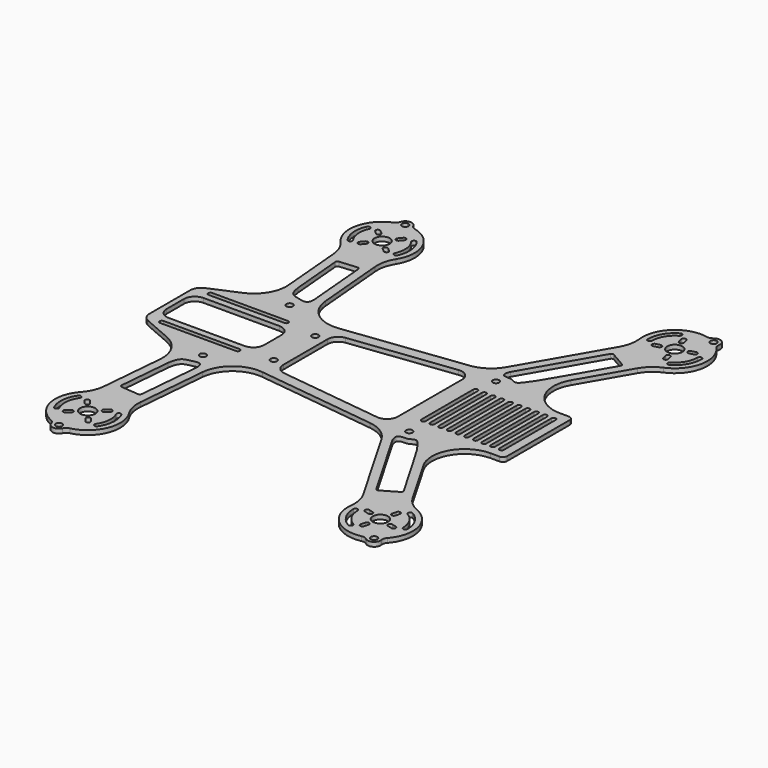
from build123d import *

# Parameters (mm, degrees)
F0_R     = 1.5
F0_R_2   = 3.5
F1_DEPTH = 2


with BuildPart() as f1:
    # F0 (on Top) → F1 (new body)
    with BuildSketch(Plane.XY):
        with BuildLine():
            ThreePointArc((-62.3969489134, -66.1545833205), (-63.5771862968, -70.8128614998), (-66.1699346924, -74.8588683751))
            ThreePointArc((-66.1699346924, -74.8588683751), (-69.6462728228, -88.1088058619), (-60.9078947559, -98.6580484394))
            ThreePointArc((-60.9078947559, -98.6580484394), (-59.8303752098, -99.4416113841), (-59.1984049241, -100.6144851277))
            ThreePointArc((-59.1984049241, -100.6144851277), (-56.5688033695, -102.8019941365), (-53.5992944181, -101.1043438228))
            ThreePointArc((-53.5992944181, -101.1043438228), (-52.7732577929, -100.0590291552), (-51.5760439125, -99.4744795979))
            ThreePointArc((-51.5760439125, -99.4744795979), (-41.138564694, -90.6029071462), (-42.2612619382, -76.950606201))
            ThreePointArc((-42.2612619382, -76.950606201), (-44.112038939, -72.5158412275), (-44.4654443477, -67.72338669))
            Line((-44.4654443477, -67.72338669), (-41.6439752318, -35.4738471247))
            ThreePointArc((-41.6439752318, -35.4738471247), (-36.1408606262, -25.123993844), (-24.8730146094, -21.8929909913))
            Line((-24.8730146094, -21.8929909913), (30.2591563071, -28.6623703889))
            ThreePointArc((30.2591563071, -28.6623703889), (36.7101709357, -31.0422753325), (41.4214972128, -36.0505626635))
            Line((41.4214972128, -36.0505626635), (63.2057713659, -73.7820323028))
            ThreePointArc((63.2057713659, -73.7820323028), (64.9108560982, -78.2748267487), (65.1076951546, -83.0762609368))
            ThreePointArc((65.1076951546, -83.0762609368), (69.859897594, -95.9239199522), (83.0687548151, -99.5532258242))
            ThreePointArc((83.0687548151, -99.5532258242), (84.4008403955, -99.5770431908), (85.5912528891, -100.1753218513))
            ThreePointArc((85.5912528891, -100.1753218513), (89, -100.458946839), (90.4587471109, -97.365072752))
            ThreePointArc((90.4587471109, -97.365072752), (90.5358288392, -96.0350059613), (91.1812451849, -94.8694773254))
            ThreePointArc((91.1812451849, -94.8694773254), (94.6426027122, -81.6156184809), (85.8923048454, -71.0762609368))
            ThreePointArc((85.8923048454, -71.0762609368), (81.8325603921, -68.5050762194), (78.7942286341, -64.7820323028))
            Line((78.7942286341, -64.7820323028), (65.929691286, -42.5))
            ThreePointArc((65.929691286, -42.5), (65.929691286, -27.5), (78.9200723427, -20))
            Line((78.9200723427, -20), (83, -20))
            ThreePointArc((83, -20), (84.4142135624, -19.4142135624), (85, -18))
            Line((85, -18), (85, 0))
            Line((85, 0), (85, 18))
            ThreePointArc((85, 18), (84.4142135624, 19.4142135624), (83, 20))
            Line((83, 20), (78.9200723427, 20))
            ThreePointArc((78.9200723427, 20), (65.929691286, 27.5), (65.929691286, 42.5))
            Line((65.929691286, 42.5), (78.7942286341, 64.7820323028))
            ThreePointArc((78.7942286341, 64.7820323028), (81.8325603921, 68.5050762194), (85.8923048454, 71.0762609368))
            ThreePointArc((85.8923048454, 71.0762609368), (94.6426027122, 81.6156184809), (91.1812451849, 94.8694773254))
            ThreePointArc((91.1812451849, 94.8694773254), (90.5358288392, 96.0350059613), (90.4587471109, 97.365072752))
            ThreePointArc((90.4587471109, 97.365072752), (89, 100.458946839), (85.5912528891, 100.1753218513))
            ThreePointArc((85.5912528891, 100.1753218513), (84.4008403955, 99.5770431908), (83.0687548151, 99.5532258242))
            ThreePointArc((83.0687548151, 99.5532258242), (69.859897594, 95.9239199522), (65.1076951546, 83.0762609368))
            ThreePointArc((65.1076951546, 83.0762609368), (64.9108560982, 78.2748267487), (63.2057713659, 73.7820323028))
            Line((63.2057713659, 73.7820323028), (41.4214972128, 36.0505626635))
            ThreePointArc((41.4214972128, 36.0505626635), (36.7101709357, 31.0422753325), (30.2591563071, 28.6623703889))
            Line((30.2591563071, 28.6623703889), (-24.8730146094, 21.8929909913))
            ThreePointArc((-24.8730146094, 21.8929909913), (-36.1408606262, 25.123993844), (-41.6439752318, 35.4738471247))
            Line((-41.6439752318, 35.4738471247), (-44.4654443477, 67.72338669))
            ThreePointArc((-44.4654443477, 67.72338669), (-44.112038939, 72.5158412275), (-42.2612619382, 76.950606201))
            ThreePointArc((-42.2612619382, 76.950606201), (-41.138564694, 90.6029071462), (-51.5760439125, 99.4744795979))
            ThreePointArc((-51.5760439125, 99.4744795979), (-52.7732577929, 100.0590291552), (-53.5992944181, 101.1043438228))
            ThreePointArc((-53.5992944181, 101.1043438228), (-56.5688033695, 102.8019941365), (-59.1984049241, 100.6144851277))
            ThreePointArc((-59.1984049241, 100.6144851277), (-59.8303752098, 99.4416113841), (-60.9078947559, 98.6580484394))
            ThreePointArc((-60.9078947559, 98.6580484394), (-69.6462728228, 88.1088058619), (-66.1699346924, 74.8588683751))
            ThreePointArc((-66.1699346924, 74.8588683751), (-63.5771862968, 70.8128614998), (-62.3969489134, 66.1545833205))
            Line((-62.3969489134, 66.1545833205), (-59.8530560661, 37.0777550237))
            ThreePointArc((-59.8530560661, 37.0777550237), (-61.9094768936, 28.093301785), (-68.8312252502, 22.0073617337))
            Line((-68.8312252502, 22.0073617337), (-81.9882504291, 16.3052577589))
            ThreePointArc((-81.9882504291, 16.3052577589), (-84.1797878024, 14.4615425103), (-85, 11.7175720427))
            Line((-85, 11.7175720427), (-85, 0))
            Line((-85, 0), (-85, -11.7175720427))
            ThreePointArc((-85, -11.7175720427), (-84.1797878024, -14.4615425103), (-81.9882504291, -16.3052577589))
            Line((-81.9882504291, -16.3052577589), (-68.8312252502, -22.0073617337))
            ThreePointArc((-68.8312252502, -22.0073617337), (-61.9094768936, -28.093301785), (-59.8530560661, -37.0777550237))
            Line((-59.8530560661, -37.0777550237), (-62.3969489134, -66.1545833205))
        make_face()
        with BuildLine():
            ThreePointArc((-66.328847338, -90.1532178426), (-67.4524337261, -83.7810427865), (-65.2394005536, -77.7007841165))
            ThreePointArc((-65.2394005536, -77.7007841165), (-63.846672073, -77.4552085085), (-63.601096465, -78.8479369892))
            ThreePointArc((-63.601096465, -78.8479369892), (-65.46004433, -83.955354272), (-64.5162317639, -89.3079813192))
            ThreePointArc((-64.5162317639, -89.3079813192), (-64.9999212892, -90.6369073679), (-66.328847338, -90.1532178426))
        make_face(mode=Mode.SUBTRACT)
        with Locations((-56.3073361412, -99.8134100423)):
            Circle(F0_R, mode=Mode.SUBTRACT)
        with BuildLine():
            Line((-50.3772298988, -88.8239686199), (-49.0916546794, -90.3560575061))
            ThreePointArc((-49.0916546794, -90.3560575061), (-49.2149115128, -91.7648895589), (-50.6237435656, -91.6416327255))
            Line((-50.6237435656, -91.6416327255), (-51.909318785, -90.1095438393))
            ThreePointArc((-51.909318785, -90.1095438393), (-51.7860619516, -88.7007117865), (-50.3772298988, -88.8239686199))
        make_face(mode=Mode.SUBTRACT)
        with BuildLine():
            Line((-58.953479049, -89.4932596721), (-60.4855679353, -90.7788348915))
            ThreePointArc((-60.4855679353, -90.7788348915), (-61.8943999881, -90.6555780581), (-61.7711431546, -89.2467460052))
            Line((-61.7711431546, -89.2467460052), (-60.2390542684, -87.9611707859))
            ThreePointArc((-60.2390542684, -87.9611707859), (-58.8302222156, -88.0844276193), (-58.953479049, -89.4932596721))
        make_face(mode=Mode.SUBTRACT)
        with Locations((-55, -84.8704895709)):
            Circle(F0_R_2, mode=Mode.SUBTRACT)
        with BuildLine():
            Line((-59.3762564344, -78.0993464162), (-58.090681215, -79.6314353025))
            ThreePointArc((-58.090681215, -79.6314353025), (-58.2139380484, -81.0402673553), (-59.6227701012, -80.9170105218))
            Line((-59.6227701012, -80.9170105218), (-60.9083453206, -79.3849216356))
            ThreePointArc((-60.9083453206, -79.3849216356), (-60.7850884872, -77.9760895828), (-59.3762564344, -78.0993464162))
        make_face(mode=Mode.SUBTRACT)
        with BuildLine():
            ThreePointArc((-43.671152662, -79.5877612991), (-42.5475662739, -85.9599363552), (-44.7605994464, -92.0401950253))
            ThreePointArc((-44.7605994464, -92.0401950253), (-46.153327927, -92.2857706332), (-46.398903535, -90.8930421526))
            ThreePointArc((-46.398903535, -90.8930421526), (-44.53995567, -85.7856248697), (-45.4837682361, -80.4329978226))
            ThreePointArc((-45.4837682361, -80.4329978226), (-45.0000787108, -79.1040717738), (-43.671152662, -79.5877612991))
        make_face(mode=Mode.SUBTRACT)
        with BuildLine():
            Line((-51.046520951, -80.2477194696), (-49.5144320647, -78.9621442503))
            ThreePointArc((-49.5144320647, -78.9621442503), (-48.1056000119, -79.0854010837), (-48.2288568454, -80.4942331365))
            Line((-48.2288568454, -80.4942331365), (-49.7609457316, -81.7798083559))
            ThreePointArc((-49.7609457316, -81.7798083559), (-51.1697777844, -81.6565515224), (-51.046520951, -80.2477194696))
        make_face(mode=Mode.SUBTRACT)
        with BuildLine():
            Line((-57.9763914073, -61.522232801), (-55.8682772737, -37.426377994))
            add(Edge.make_bspline(
                [(-55.8682772737, -37.426377994), (-55.1046008774, -31.5850283323), (-51.325228684, -31.7186170142), (-44.989078895, -29.3366249463), (-45.6287540241, -35.125224153)],
                knots=[0, 0, 0, 0, 0.5390845432, 1, 1, 1, 1], degree=3))
            Line((-45.6287540241, -35.125224153), (-48.0144444263, -62.3937902285))
            ThreePointArc((-48.0144444263, -62.3937902285), (-48.3678515148, -63.0726789289), (-49.0977948672, -63.3028291838))
            Line((-49.0977948672, -63.3028291838), (-57.0673524519, -62.6055832419))
            ThreePointArc((-57.0673524519, -62.6055832419), (-57.7462411523, -62.2521761535), (-57.9763914073, -61.522232801))
        make_face(mode=Mode.SUBTRACT)
        with BuildLine():
            Line((-77.5, -13), (-42.5, -13))
            ThreePointArc((-42.5, -13), (-41.5, -14), (-42.5, -15))
            Line((-42.5, -15), (-77.5, -15))
            ThreePointArc((-77.5, -15), (-78.5, -14), (-77.5, -13))
        make_face(mode=Mode.SUBTRACT)
        with Locations((-49.7620108828, -25)):
            Circle(F0_R, mode=Mode.SUBTRACT)
        with Locations((-27.5, -12)):
            Circle(F0_R, mode=Mode.SUBTRACT)
        with BuildLine():
            ThreePointArc((73.75, -95.6958071182), (69.1746824527, -91.1204895709), (67.5, -84.8704895709))
            ThreePointArc((67.5, -84.8704895709), (68.5, -83.8704895709), (69.5, -84.8704895709))
            ThreePointArc((69.5, -84.8704895709), (70.9067332603, -90.1204895709), (74.75, -93.9637563106))
            ThreePointArc((74.75, -93.9637563106), (75.1160254038, -95.3297817144), (73.75, -95.6958071182))
        make_face(mode=Mode.SUBTRACT)
        with BuildLine():
            Line((79.4130115557, -90.9248635737), (78.8953734655, -92.8567152263))
            ThreePointArc((78.8953734655, -92.8567152263), (77.6706285941, -93.5638220075), (76.9635218129, -92.3390771361))
            Line((76.9635218129, -92.3390771361), (77.4811599031, -90.4072254835))
            ThreePointArc((77.4811599031, -90.4072254835), (78.7059047745, -89.7001187023), (79.4130115557, -90.9248635737))
        make_face(mode=Mode.SUBTRACT)
        with Locations((87.5, -97.8608706276)):
            Circle(F0_R, mode=Mode.SUBTRACT)
        with Locations((80, -84.8704895709)):
            Circle(F0_R_2, mode=Mode.SUBTRACT)
        with BuildLine():
            Line((73.9456259972, -84.2835011265), (72.0137743446, -83.7658630363))
            ThreePointArc((72.0137743446, -83.7658630363), (71.3066675634, -82.541118165), (72.5314124348, -81.8340113838))
            Line((72.5314124348, -81.8340113838), (74.4632640874, -82.351649474))
            ThreePointArc((74.4632640874, -82.351649474), (75.1703708686, -83.5763943454), (73.9456259972, -84.2835011265))
        make_face(mode=Mode.SUBTRACT)
        with BuildLine():
            Line((83.0364781871, -77.4019020057), (82.5188400969, -79.3337536582))
            ThreePointArc((82.5188400969, -79.3337536582), (81.2940952255, -80.0408604394), (80.5869884443, -78.816115568))
            Line((80.5869884443, -78.816115568), (81.1046265345, -76.8842639155))
            ThreePointArc((81.1046265345, -76.8842639155), (82.3293714059, -76.1771571343), (83.0364781871, -77.4019020057))
        make_face(mode=Mode.SUBTRACT)
        with BuildLine():
            Line((86.0543740028, -85.4574780152), (87.9862256554, -85.9751161054))
            ThreePointArc((87.9862256554, -85.9751161054), (88.6933324366, -87.1998609768), (87.4685875652, -87.906967758))
            Line((87.4685875652, -87.906967758), (85.5367359126, -87.3893296678))
            ThreePointArc((85.5367359126, -87.3893296678), (84.8296291314, -86.1645847964), (86.0543740028, -85.4574780152))
        make_face(mode=Mode.SUBTRACT)
        with BuildLine():
            ThreePointArc((86.25, -74.0451720236), (90.8253175473, -78.6204895709), (92.5, -84.8704895709))
            ThreePointArc((92.5, -84.8704895709), (91.5, -85.8704895709), (90.5, -84.8704895709))
            ThreePointArc((90.5, -84.8704895709), (89.0932667397, -79.6204895709), (85.25, -75.7772228311))
            ThreePointArc((85.25, -75.7772228311), (84.8839745962, -74.4111974274), (86.25, -74.0451720236))
        make_face(mode=Mode.SUBTRACT)
        with Locations((45.4337567297, -25)):
            Circle(F0_R, mode=Mode.SUBTRACT)
        with BuildLine():
            Line((62.4656350661, -44.5000786269), (72.8301270189, -62.4519052838))
            ThreePointArc((72.8301270189, -62.4519052838), (72.9300274414, -63.2107243289), (72.4641016151, -63.8179306876))
            Line((72.4641016151, -63.8179306876), (65.5358983849, -67.8179306876))
            ThreePointArc((65.5358983849, -67.8179306876), (64.7770793398, -67.9178311101), (64.1698729811, -67.4519052838))
            Line((64.1698729811, -67.4519052838), (44.8856442232, -34.0506412904))
            add(Edge.make_bspline(
                [(62.4656350661, -44.5000786269), (50.5437816906, -23.5692284549), (52.9383624518, -32.1894031306), (42.8399057636, -29.16588924), (44.8856442232, -34.0506412904)],
                knots=[0, 0, 0, 0, 0.6610807529, 1, 1, 1, 1], degree=3))
        make_face(mode=Mode.SUBTRACT)
        with BuildLine():
            ThreePointArc((-37.5, -5), (-38.9644660941, -8.5355339059), (-42.5, -10))
            Line((-42.5, -10), (-77.5, -10))
            ThreePointArc((-77.5, -10), (-81.0355339059, -8.5355339059), (-82.5, -5))
            Line((-82.5, -5), (-82.5, 5))
            ThreePointArc((-82.5, 5), (-81.0355339059, 8.5355339059), (-77.5, 10))
            Line((-77.5, 10), (-42.5, 10))
            ThreePointArc((-42.5, 10), (-38.9644660941, 8.5355339059), (-37.5, 5))
            Line((-37.5, 5), (-37.5, -5))
        make_face(mode=Mode.SUBTRACT)
        with BuildLine():
            ThreePointArc((-42.5, 15), (-41.5, 14), (-42.5, 13))
            Line((-42.5, 13), (-77.5, 13))
            ThreePointArc((-77.5, 13), (-78.5, 14), (-77.5, 15))
            Line((-77.5, 15), (-42.5, 15))
        make_face(mode=Mode.SUBTRACT)
        with Locations((-49.7620108828, 25)):
            Circle(F0_R, mode=Mode.SUBTRACT)
        with BuildLine():
            ThreePointArc((-49.0977948672, 63.3028291838), (-48.3678515148, 63.0726789289), (-48.0144444263, 62.3937902285))
            Line((-48.0144444263, 62.3937902285), (-45.6287540241, 35.125224153))
            add(Edge.make_bspline(
                [(-55.8682772737, 37.426377994), (-55.1046008774, 31.5850283323), (-51.325228684, 31.7186170142), (-44.989078895, 29.3366249463), (-45.6287540241, 35.125224153)],
                knots=[0, 0, 0, 0, 0.5390845432, 1, 1, 1, 1], degree=3))
            Line((-55.8682772737, 37.426377994), (-57.9763914073, 61.522232801))
            ThreePointArc((-57.9763914073, 61.522232801), (-57.7462411523, 62.2521761535), (-57.0673524519, 62.6055832419))
            Line((-57.0673524519, 62.6055832419), (-49.0977948672, 63.3028291838))
        make_face(mode=Mode.SUBTRACT)
        with Locations((-27.5, 12)):
            Circle(F0_R, mode=Mode.SUBTRACT)
        with BuildLine():
            ThreePointArc((-66.328847338, 90.1532178426), (-64.9999212892, 90.6369073679), (-64.5162317639, 89.3079813192))
            ThreePointArc((-64.5162317639, 89.3079813192), (-65.46004433, 83.955354272), (-63.601096465, 78.8479369892))
            ThreePointArc((-63.601096465, 78.8479369892), (-63.846672073, 77.4552085085), (-65.2394005536, 77.7007841165))
            ThreePointArc((-65.2394005536, 77.7007841165), (-67.4524337261, 83.7810427865), (-66.328847338, 90.1532178426))
        make_face(mode=Mode.SUBTRACT)
        with BuildLine():
            ThreePointArc((-59.6227701012, 80.9170105218), (-58.2139380484, 81.0402673553), (-58.090681215, 79.6314353025))
            Line((-58.090681215, 79.6314353025), (-59.3762564344, 78.0993464162))
            ThreePointArc((-59.3762564344, 78.0993464162), (-60.7850884872, 77.9760895828), (-60.9083453206, 79.3849216356))
            Line((-60.9083453206, 79.3849216356), (-59.6227701012, 80.9170105218))
        make_face(mode=Mode.SUBTRACT)
        with BuildLine():
            Line((-60.4855679353, 90.7788348915), (-58.953479049, 89.4932596721))
            ThreePointArc((-58.953479049, 89.4932596721), (-58.8302222156, 88.0844276193), (-60.2390542684, 87.9611707859))
            Line((-60.2390542684, 87.9611707859), (-61.7711431546, 89.2467460052))
            ThreePointArc((-61.7711431546, 89.2467460052), (-61.8943999881, 90.6555780581), (-60.4855679353, 90.7788348915))
        make_face(mode=Mode.SUBTRACT)
        with Locations((-55, 84.8704895709)):
            Circle(F0_R_2, mode=Mode.SUBTRACT)
        with BuildLine():
            ThreePointArc((-51.046520951, 80.2477194696), (-51.1697777844, 81.6565515224), (-49.7609457316, 81.7798083559))
            Line((-49.7609457316, 81.7798083559), (-48.2288568454, 80.4942331365))
            ThreePointArc((-48.2288568454, 80.4942331365), (-48.1056000119, 79.0854010837), (-49.5144320647, 78.9621442503))
            Line((-49.5144320647, 78.9621442503), (-51.046520951, 80.2477194696))
        make_face(mode=Mode.SUBTRACT)
        with BuildLine():
            ThreePointArc((-46.398903535, 90.8930421526), (-46.153327927, 92.2857706332), (-44.7605994464, 92.0401950253))
            ThreePointArc((-44.7605994464, 92.0401950253), (-42.5475662739, 85.9599363552), (-43.671152662, 79.5877612991))
            ThreePointArc((-43.671152662, 79.5877612991), (-45.0000787108, 79.1040717738), (-45.4837682361, 80.4329978226))
            ThreePointArc((-45.4837682361, 80.4329978226), (-44.53995567, 85.7856248697), (-46.398903535, 90.8930421526))
        make_face(mode=Mode.SUBTRACT)
        with Locations((-56.3073361412, 99.8134100423)):
            Circle(F0_R, mode=Mode.SUBTRACT)
        with BuildLine():
            ThreePointArc((-50.3772298988, 88.8239686199), (-51.7860619516, 88.7007117865), (-51.909318785, 90.1095438393))
            Line((-51.909318785, 90.1095438393), (-50.6237435656, 91.6416327255))
            ThreePointArc((-50.6237435656, 91.6416327255), (-49.2149115128, 91.7648895589), (-49.0916546794, 90.3560575061))
            Line((-49.0916546794, 90.3560575061), (-50.3772298988, 88.8239686199))
        make_face(mode=Mode.SUBTRACT)
        with BuildLine():
            Line((29.390653283, -23.5181824991), (-18.109346717, -17.6859158562))
            ThreePointArc((-18.109346717, -17.6859158562), (-21.2447786039, -16.0362853391), (-22.5, -12.723185098))
            Line((-22.5, -12.723185098), (-22.5, 0))
            Line((-22.5, 0), (-22.5, 12.723185098))
            ThreePointArc((-22.5, 12.723185098), (-21.2447786039, 16.0362853391), (-18.109346717, 17.6859158562))
            Line((-18.109346717, 17.6859158562), (29.390653283, 23.5181824991))
            ThreePointArc((29.390653283, 23.5181824991), (33.3131002411, 22.3002303449), (35, 18.5554517409))
            Line((35, 18.5554517409), (35, 0))
            Line((35, 0), (35, -18.5554517409))
            ThreePointArc((35, -18.5554517409), (33.3131002411, -22.3002303449), (29.390653283, -23.5181824991))
        make_face(mode=Mode.SUBTRACT)
        with BuildLine():
            Line((43, -15), (43, 15))
            ThreePointArc((43, 15), (44, 16), (45, 15))
            Line((45, 15), (45, -15))
            ThreePointArc((45, -15), (44, -16), (43, -15))
        make_face(mode=Mode.SUBTRACT)
        with BuildLine():
            Line((47, -15), (47, 15))
            ThreePointArc((47, 15), (48, 16), (49, 15))
            Line((49, 15), (49, -15))
            ThreePointArc((49, -15), (48, -16), (47, -15))
        make_face(mode=Mode.SUBTRACT)
        with Locations((45.4337567297, 25)):
            Circle(F0_R, mode=Mode.SUBTRACT)
        with BuildLine():
            Line((51, -15), (51, 15))
            ThreePointArc((51, 15), (52, 16), (53, 15))
            Line((53, 15), (53, -15))
            ThreePointArc((53, -15), (52, -16), (51, -15))
        make_face(mode=Mode.SUBTRACT)
        with BuildLine():
            Line((55, -15), (55, 15))
            ThreePointArc((55, 15), (56, 16), (57, 15))
            Line((57, 15), (57, -15))
            ThreePointArc((57, -15), (56, -16), (55, -15))
        make_face(mode=Mode.SUBTRACT)
        with BuildLine():
            Line((59, -15), (59, 15))
            ThreePointArc((59, 15), (60, 16), (61, 15))
            Line((61, 15), (61, -15))
            ThreePointArc((61, -15), (60, -16), (59, -15))
        make_face(mode=Mode.SUBTRACT)
        with BuildLine():
            Line((63, -15), (63, 15))
            ThreePointArc((63, 15), (64, 16), (65, 15))
            Line((65, 15), (65, -15))
            ThreePointArc((65, -15), (64, -16), (63, -15))
        make_face(mode=Mode.SUBTRACT)
        with BuildLine():
            Line((67, -15), (67, 15))
            ThreePointArc((67, 15), (68, 16), (69, 15))
            Line((69, 15), (69, -15))
            ThreePointArc((69, -15), (68, -16), (67, -15))
        make_face(mode=Mode.SUBTRACT)
        with BuildLine():
            Line((71, -15), (71, 15))
            ThreePointArc((71, 15), (72, 16), (73, 15))
            Line((73, 15), (73, -15))
            ThreePointArc((73, -15), (72, -16), (71, -15))
        make_face(mode=Mode.SUBTRACT)
        with BuildLine():
            Line((75, -15), (75, 15))
            ThreePointArc((75, 15), (76, 16), (77, 15))
            Line((77, 15), (77, -15))
            ThreePointArc((77, -15), (76, -16), (75, -15))
        make_face(mode=Mode.SUBTRACT)
        with BuildLine():
            Line((79, -15), (79, 15))
            ThreePointArc((79, 15), (80, 16), (81, 15))
            Line((81, 15), (81, -15))
            ThreePointArc((81, -15), (80, -16), (79, -15))
        make_face(mode=Mode.SUBTRACT)
        with BuildLine():
            Line((44.8856442232, 34.0506412904), (64.1698729811, 67.4519052838))
            ThreePointArc((64.1698729811, 67.4519052838), (64.7770793398, 67.9178311101), (65.5358983849, 67.8179306876))
            Line((65.5358983849, 67.8179306876), (72.4641016151, 63.8179306876))
            ThreePointArc((72.4641016151, 63.8179306876), (72.9300274414, 63.2107243289), (72.8301270189, 62.4519052838))
            Line((72.8301270189, 62.4519052838), (62.4656350661, 44.5000786269))
            add(Edge.make_bspline(
                [(62.4656350661, 44.5000786269), (50.5437816906, 23.5692284549), (52.9383624518, 32.1894031306), (42.8399057636, 29.16588924), (44.8856442232, 34.0506412904)],
                knots=[0, 0, 0, 0, 0.6610807529, 1, 1, 1, 1], degree=3))
        make_face(mode=Mode.SUBTRACT)
        with BuildLine():
            ThreePointArc((69.5, 84.8704895709), (68.5, 83.8704895709), (67.5, 84.8704895709))
            ThreePointArc((67.5, 84.8704895709), (69.1746824527, 91.1204895709), (73.75, 95.6958071182))
            ThreePointArc((73.75, 95.6958071182), (75.1160254038, 95.3297817144), (74.75, 93.9637563106))
            ThreePointArc((74.75, 93.9637563106), (70.9067332603, 90.1204895709), (69.5, 84.8704895709))
        make_face(mode=Mode.SUBTRACT)
        with BuildLine():
            ThreePointArc((72.5314124348, 81.8340113838), (71.3066675634, 82.541118165), (72.0137743446, 83.7658630363))
            Line((72.0137743446, 83.7658630363), (73.9456259972, 84.2835011265))
            ThreePointArc((73.9456259972, 84.2835011265), (75.1703708686, 83.5763943454), (74.4632640874, 82.351649474))
            Line((74.4632640874, 82.351649474), (72.5314124348, 81.8340113838))
        make_face(mode=Mode.SUBTRACT)
        with BuildLine():
            Line((81.1046265345, 76.8842639155), (80.5869884443, 78.816115568))
            ThreePointArc((80.5869884443, 78.816115568), (81.2940952255, 80.0408604394), (82.5188400969, 79.3337536582))
            Line((82.5188400969, 79.3337536582), (83.0364781871, 77.4019020057))
            ThreePointArc((83.0364781871, 77.4019020057), (82.3293714059, 76.1771571343), (81.1046265345, 76.8842639155))
        make_face(mode=Mode.SUBTRACT)
        with Locations((80, 84.8704895709)):
            Circle(F0_R_2, mode=Mode.SUBTRACT)
        with BuildLine():
            ThreePointArc((90.5, 84.8704895709), (91.5, 85.8704895709), (92.5, 84.8704895709))
            ThreePointArc((92.5, 84.8704895709), (90.8253175473, 78.6204895709), (86.25, 74.0451720236))
            ThreePointArc((86.25, 74.0451720236), (84.8839745962, 74.4111974274), (85.25, 75.7772228311))
            ThreePointArc((85.25, 75.7772228311), (89.0932667397, 79.6204895709), (90.5, 84.8704895709))
        make_face(mode=Mode.SUBTRACT)
        with BuildLine():
            ThreePointArc((86.0543740028, 85.4574780152), (84.8296291314, 86.1645847964), (85.5367359126, 87.3893296678))
            Line((85.5367359126, 87.3893296678), (87.4685875652, 87.906967758))
            ThreePointArc((87.4685875652, 87.906967758), (88.6933324366, 87.1998609768), (87.9862256554, 85.9751161054))
            Line((87.9862256554, 85.9751161054), (86.0543740028, 85.4574780152))
        make_face(mode=Mode.SUBTRACT)
        with BuildLine():
            ThreePointArc((79.4130115557, 90.9248635737), (78.7059047745, 89.7001187023), (77.4811599031, 90.4072254835))
            Line((77.4811599031, 90.4072254835), (76.9635218129, 92.3390771361))
            ThreePointArc((76.9635218129, 92.3390771361), (77.6706285941, 93.5638220075), (78.8953734655, 92.8567152263))
            Line((78.8953734655, 92.8567152263), (79.4130115557, 90.9248635737))
        make_face(mode=Mode.SUBTRACT)
        with Locations((87.5, 97.8608706276)):
            Circle(F0_R, mode=Mode.SUBTRACT)
    extrude(amount=F1_DEPTH)


solid = f1.part
